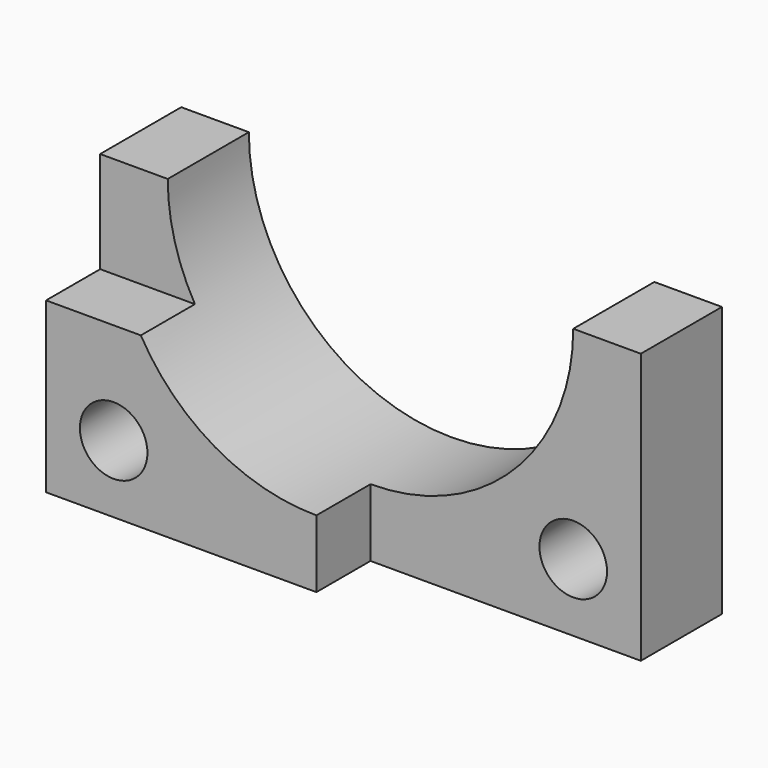
from build123d import *

# Parameters (mm, degrees)
F0_R     = 5
F1_DEPTH = 25
F2_R     = 5
F3_DEPTH = 10


with BuildPart() as f1:
    # F0 (on Front) → F1 (new body)
    with BuildSketch(Plane.XZ):
        with BuildLine():
            Line((-30, 40), (-40, 40))
            Line((-40, 40), (-40, 0))
            Line((-40, 0), (40, 0))
            Line((40, 0), (40, 40))
            Line((40, 40), (30, 40))
            ThreePointArc((30, 40), (0, 10), (-30, 40))
        make_face()
        with Locations((-30, 10)):
            Circle(F0_R, mode=Mode.SUBTRACT)
        with Locations((30, 10)):
            Circle(F0_R, mode=Mode.SUBTRACT)
    extrude(amount=F1_DEPTH)

    # F2 (on face) → F3 (cut)
    with BuildSketch(Plane.XZ.offset(25)):
        with BuildLine():
            Line((-40, 40), (-40, 25))
            Line((-40, 25), (-25.9807621135, 25))
            ThreePointArc((-25.9807621135, 25), (-28.9777747887, 32.2354286469), (-30, 40))
            Line((-30, 40), (-40, 40))
        make_face()
        with BuildLine():
            ThreePointArc((30, 40), (21.2132034356, 18.7867965644), (0, 10))
            Line((0, 10), (0, 0))
            Line((0, 0), (40, 0))
            Line((40, 0), (40, 40))
            Line((40, 40), (30, 40))
        make_face()
        with Locations((30, 10)):
            Circle(F2_R, mode=Mode.SUBTRACT)
    extrude(amount=-F3_DEPTH, mode=Mode.SUBTRACT)


solid = f1.part
